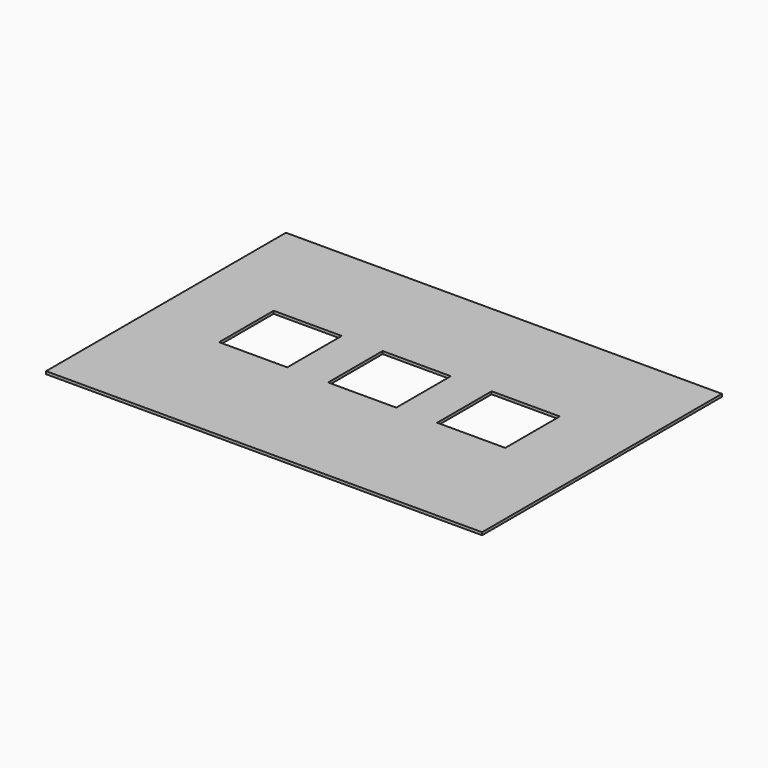
from build123d import *

# Parameters (mm, degrees)
F0_W     = 32
F0_H     = 22
F0_W_2   = 5
F0_H_2   = 5
F1_DEPTH = 0.2


with BuildPart() as f1:
    # F0 (on Top) → F1 (new body)
    with BuildSketch(Plane.XY):
        with Locations((16, -11)):
            Rectangle(F0_W, F0_H)
        with Locations((8, -10.5)):
            Rectangle(F0_W_2, F0_H_2, mode=Mode.SUBTRACT)
        with Locations((16, -10.5)):
            Rectangle(F0_W_2, F0_H_2, mode=Mode.SUBTRACT)
        with Locations((24, -10.5)):
            Rectangle(F0_W_2, F0_H_2, mode=Mode.SUBTRACT)
    extrude(amount=F1_DEPTH)


solid = f1.part
